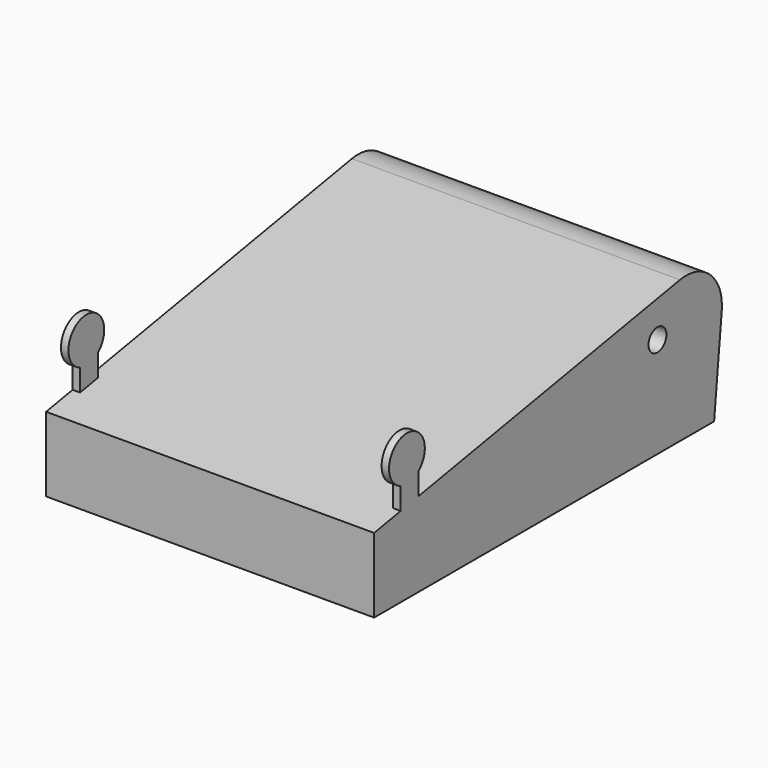
from build123d import *

# Parameters (mm, degrees)
F0_R          = 15
F1_DEPTH      = 220
F1_DEPTH_BACK = 220
F3_DEPTH      = 10


with BuildPart() as f1:
    # F0 (on Right) → F1 (new body, two sides)
    with BuildSketch(Plane.YZ) as f1_sk:
        with BuildLine():
            Line((0, 100), (0, 0))
            Line((0, 0), (570, 0))
            Line((570, 0), (582.8065256566, 125.2091964617))
            ThreePointArc((582.8065256566, 125.2091964617), (563.9765046368, 175.2525352812), (512.6990361213, 190.4026730514))
            Line((512.6990361213, 190.4026730514), (0, 100))
        make_face()
        with Locations((475, 135)):
            Circle(F0_R, mode=Mode.SUBTRACT)
    extrude(amount=-F1_DEPTH)
    extrude(f1_sk.sketch, amount=F1_DEPTH_BACK)

    # F2 (on face) → F3 (join)
    with BuildSketch(Plane.YZ.offset(220)):
        with BuildLine():
            Line((44.4880730518, 137.4484157784), (44.4880730518, 107.8444475988))
            Line((44.4880730518, 107.8444475988), (74.4880730518, 113.13425702))
            Line((74.4880730518, 113.13425702), (74.4880730518, 142.7382251997))
            ThreePointArc((74.4880730518, 142.7382251997), (49.79055467, 195.090680183), (44.4880730518, 137.4484157784))
        make_face()
    extrude(amount=-F3_DEPTH)

    # F4: F1 across plane


with BuildPart() as f1_1:
    add(f1.part)
    add(f1.part.mirror(Plane.YZ))


solid = f1_1.part
